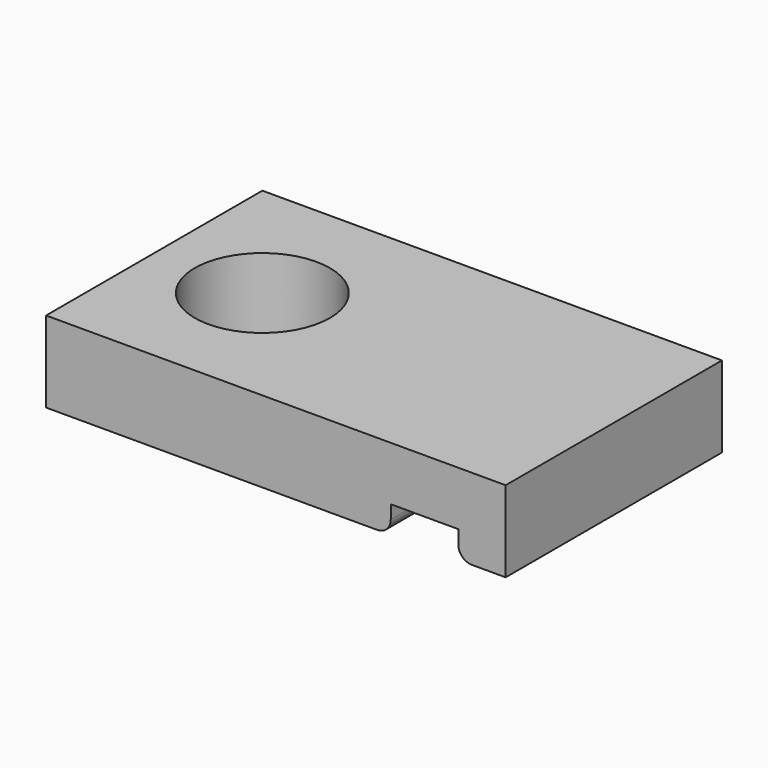
from build123d import *

# Parameters (mm, degrees)
F1_DEPTH      = 5
F1_DEPTH_BACK = 5
F2_R          = 2.5
F3_DEPTH      = 3.001
F4_R          = 0.5


with BuildPart() as f1:
    # F0 (on Front) → F1 (new body, two sides)
    with BuildSketch(Plane.XZ) as f1_sk:
        Polygon((0, 3), (0, 0), (12.75, 0), (12.75, 1), (15.25, 1), (15.25, 0), (17, 0), (17, 3), align=None)
    extrude(amount=F1_DEPTH)
    extrude(f1_sk.sketch, amount=-F1_DEPTH_BACK)

    # F2 (on face) → F3 (cut, through all)
    with BuildSketch(Plane.XY.offset(3)):
        with Locations((4, 0)):
            Circle(F2_R)
    extrude(amount=-F3_DEPTH, mode=Mode.SUBTRACT)

    # F4
    f4_edges = [f1.edges().sort_by_distance(p)[0] for p in [
        (12.75, 0, 0),
        (15.25, 0, 0),
    ]]
    fillet(f4_edges, radius=F4_R)


solid = f1.part
